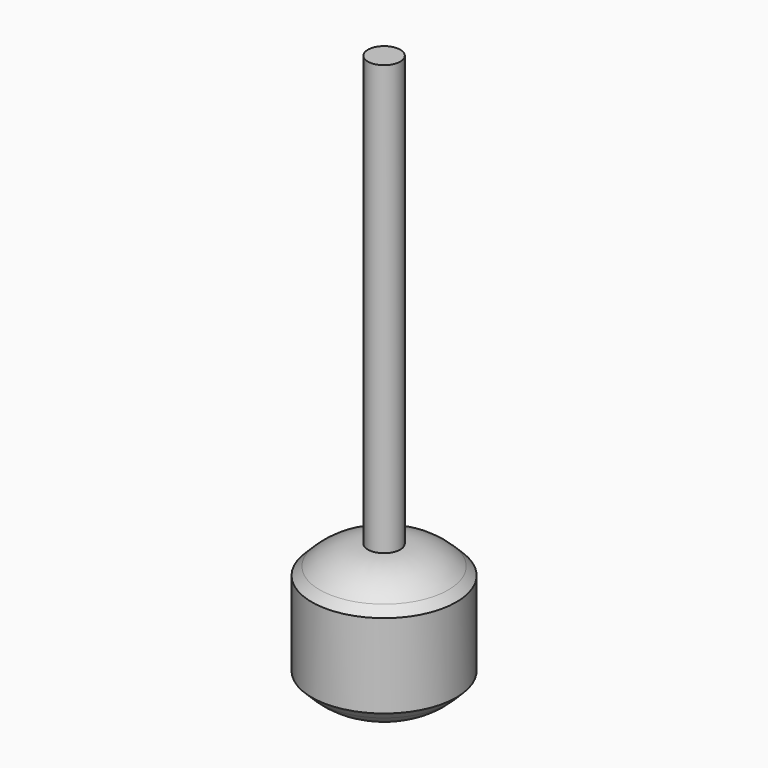
from build123d import *

# Parameters (mm, degrees)
F0_R     = 13.1240937351
F1_DEPTH = 25.4
F2_SIZE  = 5.08
F3_R     = 12.3312643235
F4_DEPTH = 25.4
F5_DEPTH = 52.578
F6_R     = 12.3312643235


with BuildPart() as f1:
    # F0 (on Top) → F1 (new body)
    with BuildSketch(Plane.XY):
        with Locations((6.1321523972, 1.8493796233)):
            Circle(F0_R)
    extrude(amount=F1_DEPTH)

    # F2
    f2_edges = [f1.edges().sort_by_distance(p)[0] for p in [
        (-6.991941, 1.84938, 25.4),
        (-6.991941, 1.84938, 0),
    ]]
    chamfer(f2_edges, length=F2_SIZE)

    # F3
    f3_edges = [f1.edges().sort_by_distance(p)[0] for p in [
        (-1.911941, 1.84938, 25.4),
    ]]
    fillet(f3_edges, radius=F3_R)

    # F4 (add): a face of the model
    f4_faces = [f1.faces().sort_by_distance(p)[0] for p in [
        (6.1321523972, 1.8493796233, 25.4),
    ]]
    extrude(f4_faces, amount=F4_DEPTH)

    # F5 (add): a face of the model
    f5_faces = [f1.faces().sort_by_distance(p)[0] for p in [
        (6.1321523972, 1.8493796233, 50.8),
    ]]
    extrude(f5_faces, amount=F5_DEPTH)

    # F6
    f6_edges = [f1.edges().sort_by_distance(p)[0] for p in [
        (-1.911941, 1.84938, 0),
    ]]
    fillet(f6_edges, radius=F6_R)


solid = f1.part
